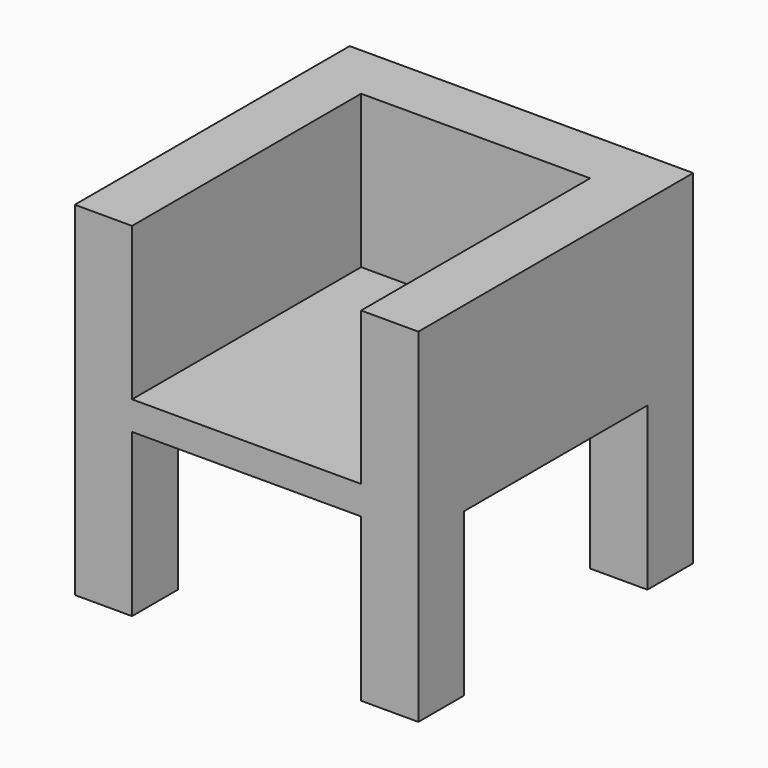
from build123d import *

# Parameters (mm, degrees)
F0_W     = 914.4
F0_H     = 914.4
F1_DEPTH = 914.4
F2_W     = 609.6
F2_H     = 762
F3_DEPTH = 406.4
F4_W     = 609.6
F4_H     = 431.8
F5_DEPTH = 914.401
F6_W     = 609.6
F6_H     = 431.8
F7_DEPTH = 914.401


with BuildPart() as f1:
    # F0 (on Top) → F1 (new body)
    with BuildSketch(Plane.XY):
        with Locations((2.566727, 44.486442)):
            Rectangle(F0_W, F0_H)
    extrude(amount=F1_DEPTH)

    # F2 (on face) → F3 (cut)
    with BuildSketch(Plane.XY.offset(914.4)):
        with Locations((2.566727, -31.713558)):
            Rectangle(F2_W, F2_H)
    extrude(amount=-F3_DEPTH, mode=Mode.SUBTRACT)

    # F4 (on face) → F5 (cut, through all)
    with BuildSketch(Plane.XZ.offset(412.713558)):
        with Locations((2.566727, 215.9)):
            Rectangle(F4_W, F4_H)
    extrude(amount=-F5_DEPTH, mode=Mode.SUBTRACT)

    # F6 (on face) → F7 (cut, through all)
    with BuildSketch(Plane(origin=(-454.633273, 0, 0), x_dir=(0, -1, 0), z_dir=(-1, 0, 0))):
        with Locations((-44.486442, 215.9)):
            Rectangle(F6_W, F6_H)
    extrude(amount=-F7_DEPTH, mode=Mode.SUBTRACT)


solid = f1.part
